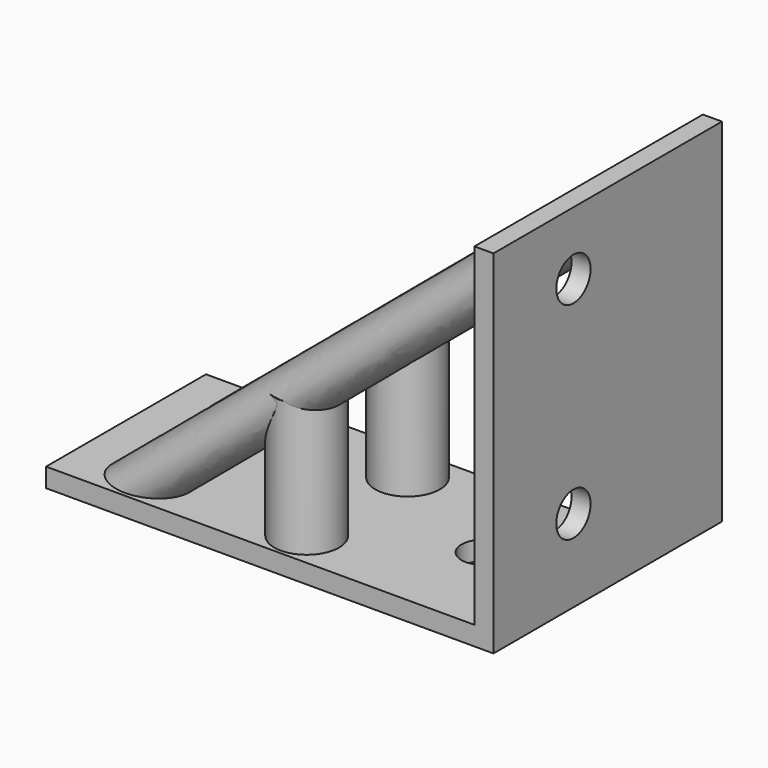
from build123d import *

# Parameters (mm, degrees)
F0_W      = 45
F0_H      = 21
F0_R      = 2.25
F1_DEPTH  = 2
F2_DEPTH  = 37
F3_R      = 2.25
F4_DEPTH  = 2
F5_DEPTH  = 2
F6_R      = 3.4
F10_DEPTH = 25.29364
F11_R     = 3.4
F12_DEPTH = 13.84716
F13_DEPTH = 13.90348


with BuildPart() as f1:
    # F0 (on Top) → F1 (new body)
    with BuildSketch(Plane.XY):
        Rectangle(F0_W, F0_H)
        with Locations((-15, 0)):
            Circle(F0_R, mode=Mode.SUBTRACT)
        with Locations((15, 0)):
            Circle(F0_R, mode=Mode.SUBTRACT)
    extrude(amount=F1_DEPTH)

    # F0 (on Top) → F2 (join)
    with BuildSketch(Plane.XY):
        Polygon((22.5, 19.5), (22.5, 10.5), (22.5, -10.5), (24.5, -10.5), (24.5, 19.5), align=None)
    extrude(amount=F2_DEPTH)

    # F3 (on face) → F4 (cut)
    with BuildSketch(Plane(origin=(22.5, 0, 0), x_dir=(0, -1, 0), z_dir=(-1, 0, 0))):
        with Locations((0, 30.371862)):
            Circle(F3_R)
    extrude(amount=-F4_DEPTH, mode=Mode.SUBTRACT)

    # F3 (on face) → F5 (cut)
    with BuildSketch(Plane(origin=(22.5, 0, 0), x_dir=(0, -1, 0), z_dir=(-1, 0, 0))):
        with Locations((0, 8.653291)):
            Circle(F3_R)
    extrude(amount=-F5_DEPTH, mode=Mode.SUBTRACT)

    # F9: sweep along a path in F8
    with BuildLine(Plane(origin=(-6.98168, 0, 8.320443), x_dir=(0.766044, 0, 0.642788), z_dir=(0.642788, 0, -0.766044))) as f9_path:
        Line((38.485602, -5.201812), (-16.503841, -5.201812))
    # F6 (on face) → F9 (sweep)
    with BuildSketch(Plane(origin=(22.5, 0, 0), x_dir=(0, -1, 0), z_dir=(-1, 0, 0))):
        with Locations((-6.542337, 33.138294)):
            Circle(F6_R)
        with Locations((6.7, 33.05851)):
            Circle(F6_R)
    sweep(path=f9_path.line)

    # F0 (on Top) → F10 (cut)
    with BuildSketch(Plane.XY):
        Rectangle(F0_W, F0_H)
        with Locations((-15, 0)):
            Circle(F0_R, mode=Mode.SUBTRACT)
        with Locations((15, 0)):
            Circle(F0_R, mode=Mode.SUBTRACT)
    extrude(amount=-F10_DEPTH, mode=Mode.SUBTRACT)

    # F11 (on face) → F12 (join)
    with BuildSketch(Plane.XY.offset(2)):
        with Locations((1.859553, 6.518121)):
            Circle(F11_R)
    extrude(amount=F12_DEPTH)

    # F11 (on face) → F13 (join)
    with BuildSketch(Plane.XY.offset(2)):
        with Locations((1.859553, -6.728277)):
            Circle(F11_R)
    extrude(amount=F13_DEPTH)


solid = f1.part
